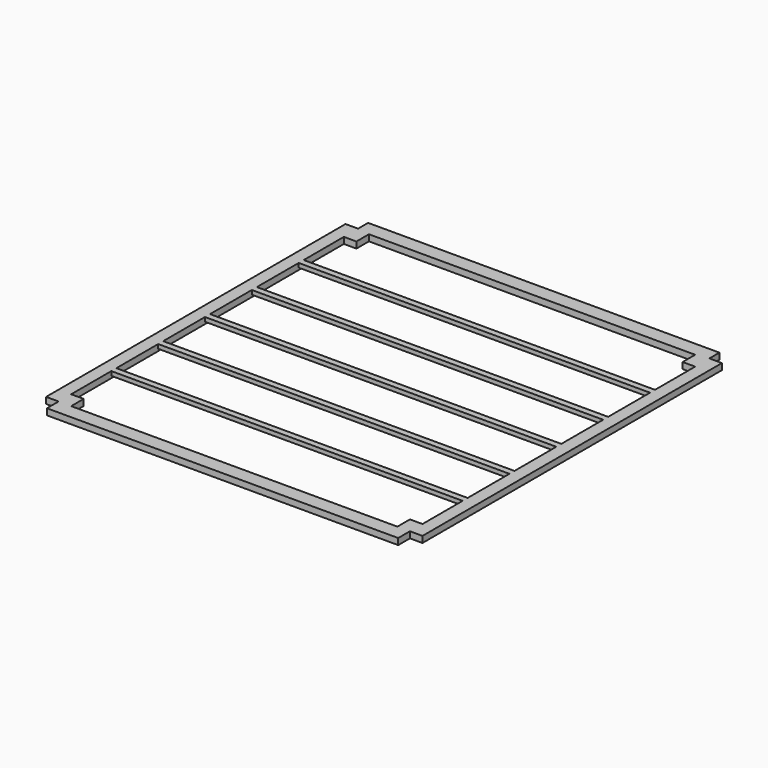
from build123d import *

# Parameters (mm, degrees)
F0_W      = 180
F0_H      = 190
F1_DEPTH  = 3
F2_W      = 6
F2_H      = 6
F3_DEPTH  = 3.001
F4_W      = 168
F4_H      = 25
F5_DEPTH  = 3.001
F6_DEPTH  = 1
F7_DEPTH  = 1
F8_DEPTH  = 1
F9_W      = 168
F9_H      = 134.1867442131
F10_DEPTH = 1


with BuildPart() as f1:
    # F0 (on Top) → F1 (new body)
    with BuildSketch(Plane.XY):
        with Locations((90, -95)):
            Rectangle(F0_W, F0_H)
    extrude(amount=F1_DEPTH)

    # F2 (on face) → F3 (cut, through all)
    with BuildSketch(Plane.XY.offset(3)):
        with Locations((3, -187)):
            Rectangle(F2_W, F2_H)
        with Locations((177, -187)):
            Rectangle(F2_W, F2_H)
        with Locations((177, -3)):
            Rectangle(F2_W, F2_H)
        with Locations((3, -3)):
            Rectangle(F2_W, F2_H)
    extrude(amount=-F3_DEPTH, mode=Mode.SUBTRACT)

    # F4 (on face) → F5 (cut, through all)
    with BuildSketch(Plane.XY.offset(3)):
        Polygon((6, -152.5), (6, -176.5), (12, -176.5), (12, -184), (168, -184), (168, -176.5), (174, -176.5), (174, -152.5), align=None)
        with Locations((90, -137)):
            Rectangle(F4_W, F4_H)
        with Locations((90, -109)):
            Rectangle(F4_W, F4_H)
        with Locations((90, -81)):
            Rectangle(F4_W, F4_H)
        with Locations((90, -53)):
            Rectangle(F4_W, F4_H)
        Polygon((6, -13.5), (6, -37.5), (174, -37.5), (174, -13.5), (167.9999051407, -13.5), (168, -6.0000000006), (12, -6), (11.9999051407, -13.5), align=None)
    extrude(amount=-F5_DEPTH, mode=Mode.SUBTRACT)

    # F6 (add): a face of the model
    f6_faces = [f1.faces().sort_by_distance(p)[0] for p in [
        (90, -190, 1.5),
    ]]
    extrude(f6_faces, amount=F6_DEPTH)

    # F7 (add): a face of the model
    f7_faces = [f1.faces().sort_by_distance(p)[0] for p in [
        (90, 0, 1.5),
    ]]
    extrude(f7_faces, amount=F7_DEPTH)

    # F8 (add): faces of the model
    f8_faces = [f1.faces().sort_by_distance(p)[0] for p in [
        (177, -6, 1.5),
        (3, -6, 1.5),
        (3, -184, 1.5),
        (177, -184, 1.5),
    ]]
    extrude(f8_faces, amount=F8_DEPTH, dir=(0, 1, 0))

    # F9 (on face) → F10 (cut)
    with BuildSketch(Plane(origin=(0, 0, 0), x_dir=(1, 0, 0), z_dir=(0, 0, -1))):
        with Locations((90, 92.5933721066)):
            Rectangle(F9_W, F9_H)
    extrude(amount=-F10_DEPTH, mode=Mode.SUBTRACT)


solid = f1.part
